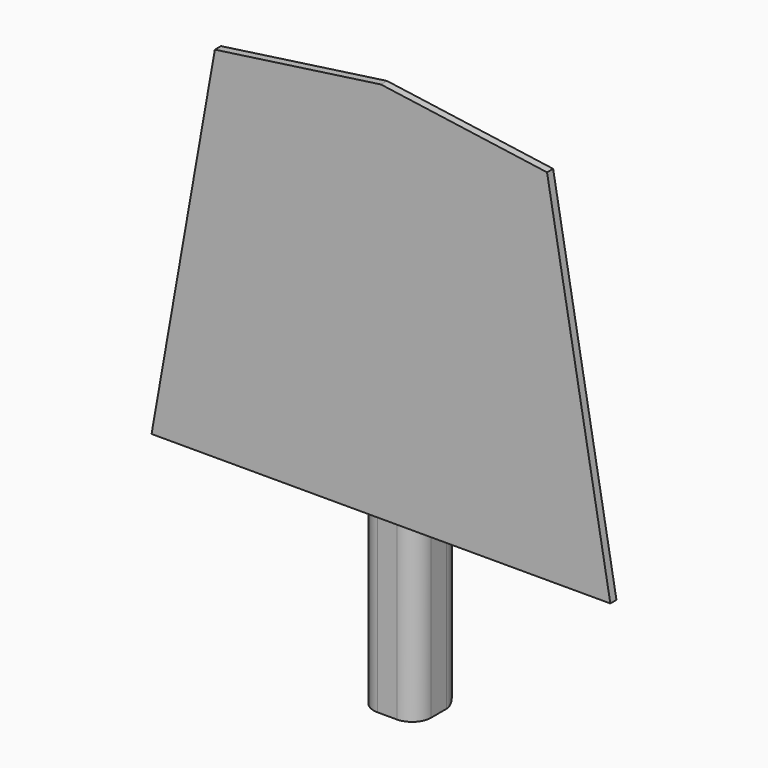
from build123d import *

# Parameters (mm, degrees)
F0_W     = 15
F0_H     = 15
F1_DEPTH = 25
F2_DEPTH = 100
F4_DEPTH = 2
F5_W     = 50
F5_H     = 5
F6_DEPTH = 5
F9_DEPTH = 3
F10_R    = 5


with BuildPart() as f1:
    # F0 (on Top) → F1 (new body)
    with BuildSketch(Plane.XY):
        with Locations((0, 7.5449103606)):
            Rectangle(F0_W, F0_H)
    extrude(amount=-F1_DEPTH)

    # F2 (add): a face of the model
    f2_faces = [f1.faces().sort_by_distance(p)[0] for p in [
        (0, 7.5449103606, 0),
    ]]
    extrude(f2_faces, amount=F2_DEPTH)


with BuildPart() as f4:
    # F3 (on Front) → F4 (new body)
    with BuildSketch(Plane.XZ):
        Polygon((-60, 21.2392159319), (0, 21.2392159319), (0, 121.2392159319), (-43.4438911228, 115.1335752108), align=None)
        Polygon((0, 21.2392159319), (60, 21.2392159319), (43.4438911228, 115.1335752108), (0, 121.2392159319), align=None)
    extrude(amount=F4_DEPTH)


with BuildPart() as f6:
    # F5 (on Front) → F6 (new body)
    with BuildSketch(Plane.XZ):
        with Locations((-25, 27.8107548699)):
            Rectangle(F5_W, F5_H)
        with Locations((25, 27.8107548699)):
            Rectangle(F5_W, F5_H)
    extrude(amount=-F6_DEPTH)


with BuildPart() as f1_1:
    add(f1.part)

    # F7: union F6
    add(f6.part)

    # F10
    f10_edges = [f1_1.edges().sort_by_distance(p)[0] for p in [
        (7.5, 15.04491, 37.5),
        (7.5, 0.04491, 0.155377),
        (0, 15.04491, -25),
        (-7.5, 15.04491, 37.5),
        (0, 15.04491, 100),
        (-7.5, 0.04491, 0.155377),
    ]]
    fillet(f10_edges, radius=F10_R)


with BuildPart() as f9:
    # F8 (on face) → F9 (new body)
    with BuildSketch(Plane(origin=(0, 0, 0), x_dir=(-1, 0, 0), z_dir=(0, 1, 0))):
        Polygon((-7.5, 80.0798447545), (-34.1528759696, 99.5233391426), (-36.8789015881, 95.7865405379), (-7.5, 74.3543878198), align=None)
    extrude(amount=F9_DEPTH)


with BuildPart() as f9b:
    # F8 (on face) → F9, piece 2 (new body)
    with BuildSketch(Plane(origin=(0, 0, 0), x_dir=(-1, 0, 0), z_dir=(0, 1, 0))):
        Polygon((7.5, 80.0798447545), (7.5, 74.3543878198), (36.8789015881, 95.7865405379), (34.1528759696, 99.5233391426), align=None)
    extrude(amount=F9_DEPTH)


solid = Compound([f4.part, f1_1.part, f9.part, f9b.part])
